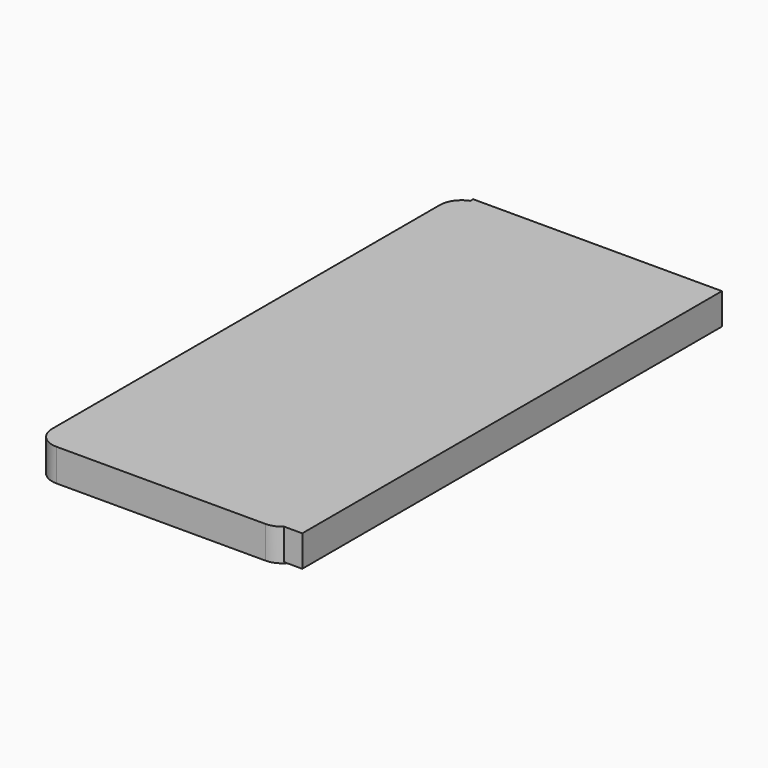
from build123d import *

# Parameters (mm, degrees)
F0_W     = 59.436
F0_H     = 124.46
F1_DEPTH = 7.62
F2_R     = 5.08
F4_DEPTH = 7.366


with BuildPart() as f1:
    # F0 (on Top) → F1 (new body)
    with BuildSketch(Plane.XY):
        with Locations((1.65762, 6.994029)):
            Rectangle(F0_W, F0_H)
    extrude(amount=F1_DEPTH)

    # F2
    f2_edges = [f1.edges().sort_by_distance(p)[0] for p in [
        (31.37562, -55.235971, 3.81),
        (-28.06038, -55.235971, 3.81),
        (31.37562, 69.224029, 3.81),
        (-28.06038, 69.224029, 3.81),
    ]]
    fillet(f2_edges, radius=F2_R)

    # F3 (on face) → F4 (join)
    with BuildSketch(Plane.XY.offset(7.62)):
        with BuildLine():
            Line((33.951722, 69.768132), (-24.722278, 69.768132))
            Line((-24.722278, 69.768132), (-24.722278, 68.916051))
            ThreePointArc((-24.722278, 68.916051), (-23.864837, 69.146442), (-22.98038, 69.224029))
            Line((-22.98038, 69.224029), (26.29562, 69.224029))
            ThreePointArc((26.29562, 69.224029), (29.887722, 67.736132), (31.37562, 64.144029))
            Line((31.37562, 64.144029), (31.37562, -50.155971))
            ThreePointArc((31.37562, -50.155971), (30.936819, -52.221321), (29.696222, -53.929868))
            Line((29.696222, -53.929868), (33.951722, -53.929868))
            Line((33.951722, -53.929868), (33.951722, 69.768132))
        make_face()
    extrude(amount=-F4_DEPTH)


solid = f1.part
